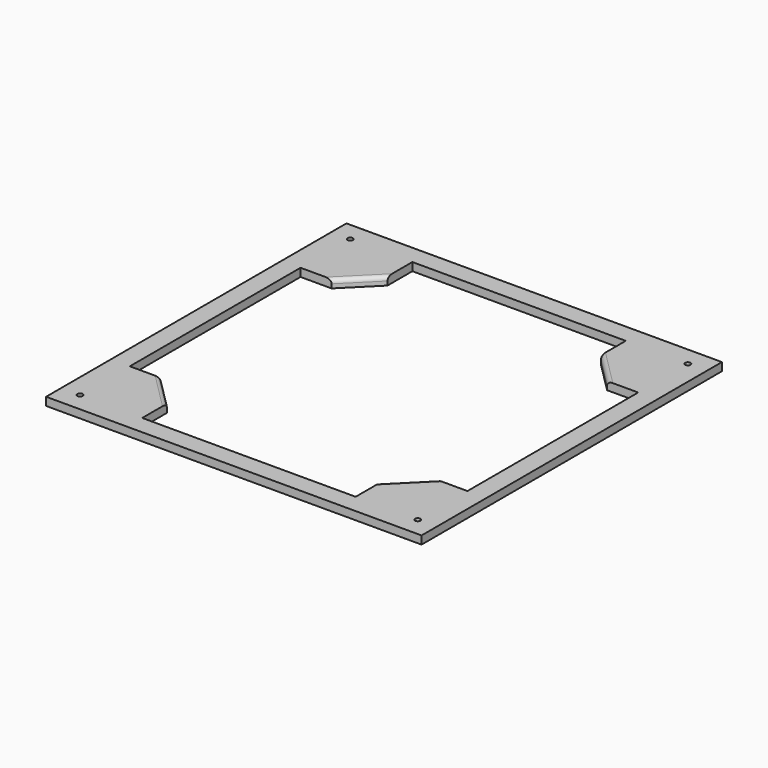
from build123d import *

# Parameters (mm, degrees)
SKETCH002_W          = 278
SKETCH002_H          = 278
PAD002_DEPTH         = 6
POCKET_DEPTH         = 0.001
POCKET_DEPTH_BACK    = 6.001
SKETCH004_R          = 2
POCKET001_DEPTH      = 6.001
POCKET001_DEPTH_BACK = 0.001
FILLET_R             = 3


with BuildPart() as part:
    # Sketch002 → Pad002 (new body)
    with BuildSketch(Plane.XY):
        Rectangle(SKETCH002_W, SKETCH002_H)
    extrude(amount=PAD002_DEPTH)

    # Sketch003 → Pocket (cut, two sides)
    with BuildSketch(Plane.XY) as pocket_sk:
        Polygon((-79, 125), (79, 125), (79, 102), (102, 79), (125, 79), (125, -79), (102, -79), (79, -102), (79, -125), (-79, -125), (-79, -102), (-102, -79), (-125, -79), (-125, 79), (-102, 79), (-79, 102), align=None)
    extrude(amount=-POCKET_DEPTH, mode=Mode.SUBTRACT)
    extrude(pocket_sk.sketch, amount=POCKET_DEPTH_BACK, mode=Mode.SUBTRACT)

    # Sketch004 (on Face5 of Pad002) → Pocket001 (cut, two sides)
    with BuildSketch(Plane(origin=(0, 0, 0), x_dir=(1, 0, 0), z_dir=(0, 0, -1))) as pocket001_sk:
        with Locations((-125, 125)):
            Circle(SKETCH004_R)
        with Locations((125, 125)):
            Circle(SKETCH004_R)
        with Locations((125, -125)):
            Circle(SKETCH004_R)
        with Locations((-125, -125)):
            Circle(SKETCH004_R)
    extrude(amount=-POCKET001_DEPTH, mode=Mode.SUBTRACT)
    extrude(pocket001_sk.sketch, amount=POCKET001_DEPTH_BACK, mode=Mode.SUBTRACT)

    # Fillet
    fillet_edges = [part.edges().sort_by_distance(p)[0] for p in [
        (-90.5, -90.5, 6),
        (-90.5, 90.5, 6),
        (90.5, 90.5, 6),
        (90.5, -90.5, 6),
    ]]
    fillet(fillet_edges, radius=FILLET_R)


solid = part.part
